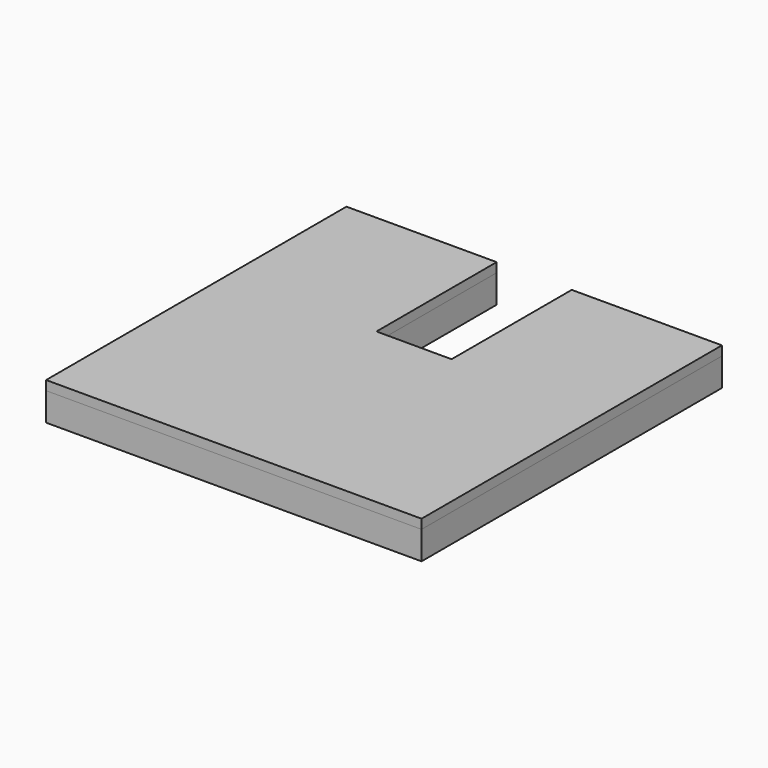
from build123d import *

# Parameters (mm, degrees)
F1_DEPTH = 19.05
F2_DEPTH = 6.35


with BuildPart() as f1:
    # F0 (on Top) → F1 (new body)
    with BuildSketch(Plane.XY):
        Polygon((0, 254), (0, 0), (254, 0), (254, 254), (152.4, 254), (152.4, 152.4), (101.6, 152.4), (101.6, 254), align=None)
    extrude(amount=F1_DEPTH)


with BuildPart() as f2:
    # F1_face (on face) → F2 (new body)
    with BuildSketch(Plane(origin=(127, 120.373913, 19.05), x_dir=(1, 0, 0), z_dir=(0, 0, 1))):
        Polygon((-127, 133.626087), (-127, -120.373913), (127, -120.373913), (127, 133.626087), (25.4, 133.626087), (25.4, 32.026087), (-25.4, 32.026087), (-25.4, 133.626087), align=None)
    extrude(amount=F2_DEPTH)


solid = Compound([f1.part, f2.part])
